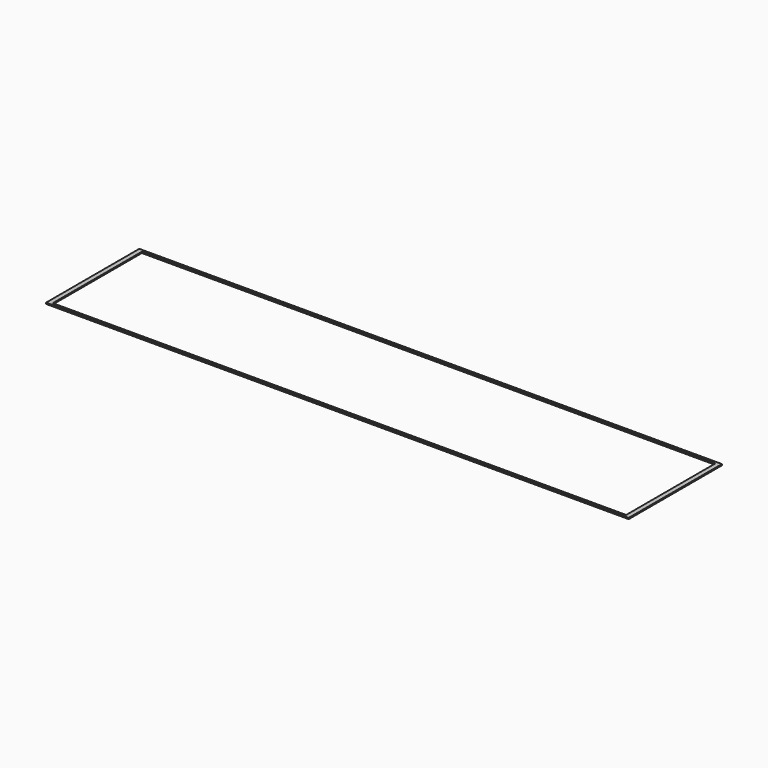
from build123d import *

# Parameters (mm, degrees)
F0_W     = 97
F0_H     = 2286
F1_DEPTH = 25


with BuildPart() as f1:
    # F0 (on Top) → F1 (new body)
    with BuildSketch(Plane.XY):
        with Locations((-6047.5, 0)):
            Rectangle(F0_W, F0_H)
        Polygon((-5999, 1165), (5999, 1165), (5999, -1165), (-5999, -1165), (-5999, -1143), (-6096, -1143), (-6096, -1219), (6096, -1219), (6096, 1219), (-6096, 1219), (-6096, 1143), (-5999, 1143), align=None)
    extrude(amount=F1_DEPTH)


solid = f1.part
